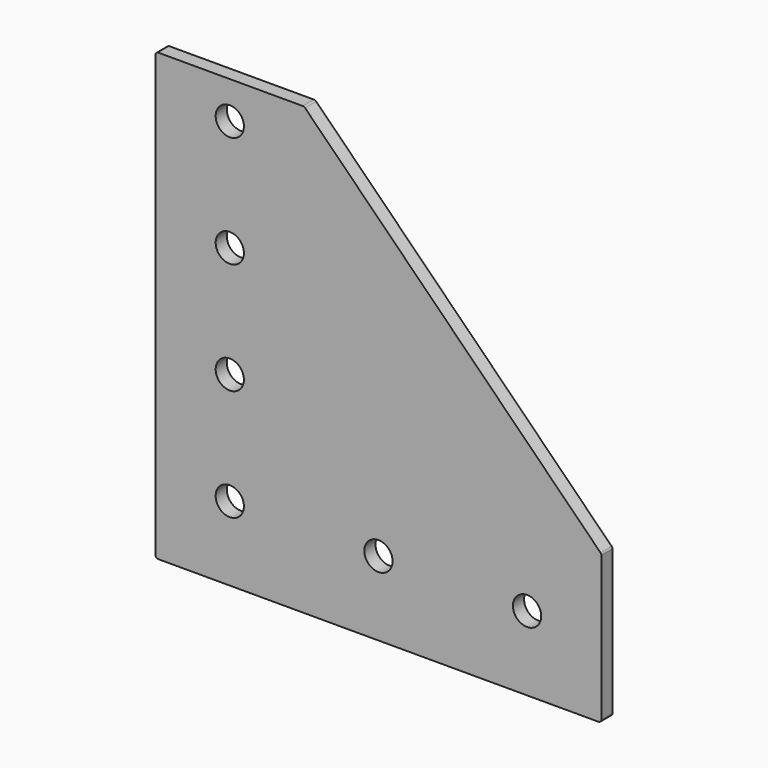
from build123d import *

# Parameters (mm, degrees)
F1_DEPTH = 2.38125
F2_R     = 0.508
F3_R     = 2.413
F4_DEPTH = 2.38125


with BuildPart() as f1:
    # F0 (on Front) → F1 (new body)
    with BuildSketch(Plane.XZ):
        Polygon((-8.816487, 37.985209), (-34.216487, 37.985209), (-34.216487, -38.214791), (41.983513, -38.214791), (41.983513, -12.814791), align=None)
    extrude(amount=F1_DEPTH)

    # F2
    f2_edges = [f1.edges().sort_by_distance(p)[0] for p in [
        (-34.216487, -1.190625, 37.985209),
        (-8.816487, -1.190625, 37.985209),
        (-34.216487, -1.190625, -38.214791),
        (41.983513, -1.190625, -12.814791),
        (41.983513, -1.190625, -38.214791),
    ]]
    fillet(f2_edges, radius=F2_R)

    # F3 (on face) → F4 (cut)
    with BuildSketch(Plane.XZ.offset(2.38125)):
        with Locations((-21.516487, 31.635209)):
            Circle(F3_R)
        with Locations((-21.516487, 12.585209)):
            Circle(F3_R)
        with Locations((-21.516487, -6.464791)):
            Circle(F3_R)
        with Locations((-21.516487, -25.514791)):
            Circle(F3_R)
        with Locations((3.883513, -25.514791)):
            Circle(F3_R)
        with Locations((29.283513, -25.514791)):
            Circle(F3_R)
    extrude(amount=-F4_DEPTH, mode=Mode.SUBTRACT)


solid = f1.part
